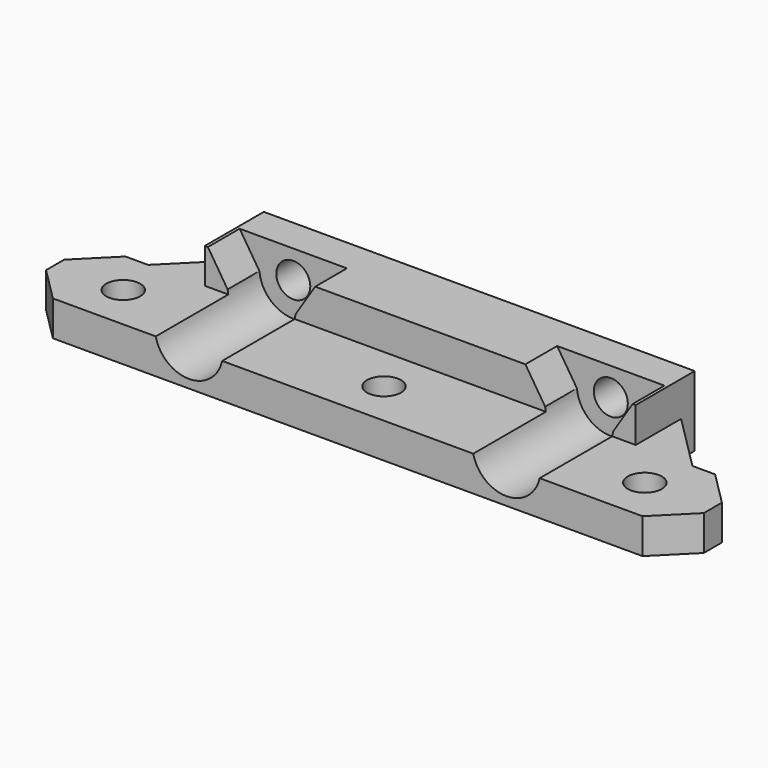
from build123d import *

# Parameters (mm, degrees)
SKETCH_W        = 38
SKETCH_H        = 6.2
SKETCH_R        = 1.5
PAD_DEPTH       = 3
PAD001_DEPTH    = 3.5
PAD002_DEPTH    = 8
SKETCH003_R     = 1.5
POCKET_DEPTH    = 3.101
SKETCH004_W     = 3.1
SKETCH004_H     = 8
PAD003_DEPTH    = 10
SKETCH005_W     = 3.1
SKETCH005_H     = 8
PAD004_DEPTH    = 10
SKETCH006_R     = 1.5
POCKET001_DEPTH = 3.101
CHAMFER_SIZE    = 5
CHAMFER001_SIZE = 3
CHAMFER002_SIZE = 3


with BuildPart() as part:
    # Sketch → Pad (new body)
    with BuildSketch(Plane.XZ):
        with Locations((0, 3.1)):
            Rectangle(SKETCH_W, SKETCH_H)
        with Locations((-14, 3.75)):
            Circle(SKETCH_R, mode=Mode.SUBTRACT)
        with Locations((14, 3.75)):
            Circle(SKETCH_R, mode=Mode.SUBTRACT)
    extrude(amount=PAD_DEPTH)

    # Sketch001 (on Face8 of Pad) → Pad001 (join)
    with BuildSketch(Plane.XZ.offset(3)):
        with BuildLine():
            ThreePointArc((-15.731329, 6.2), (-14, 0.75), (-12.268671, 6.2))
            Line((-12.268671, 6.2), (12.268671, 6.2))
            ThreePointArc((12.268671, 6.2), (14, 0.75), (15.731329, 6.2))
            Line((15.731329, 6.2), (19, 6.2))
            Line((19, 6.2), (19, 0))
            Line((19, 0), (-19, 0))
            Line((-19, 0), (-19, 6.2))
            Line((-19, 6.2), (-15.731329, 6.2))
        make_face()
    extrude(amount=PAD001_DEPTH)

    # Sketch002 (on Face7 of Pad001) → Pad002 (join)
    with BuildSketch(Plane.XZ.offset(6.5)):
        with BuildLine():
            Line((-19, 0), (-19, 3.1))
            Line((-19, 3.1), (-16.928737, 3.1))
            ThreePointArc((-16.928737, 3.1), (-14, 0.75), (-11.071263, 3.1))
            Line((-11.071263, 3.1), (11.071263, 3.1))
            ThreePointArc((11.071263, 3.1), (14, 0.75), (16.928737, 3.1))
            Line((19, 3.1), (16.928737, 3.1))
            Line((19, 0), (19, 3.1))
            Line((-19, 0), (19, 0))
        make_face()
    extrude(amount=PAD002_DEPTH)

    # Sketch003 (on Face13 of Pad002) → Pocket (cut, through all)
    with BuildSketch(Plane(origin=(0, 0, 3.1), x_dir=(-1, 0, 0), z_dir=(0, 0, 1))):
        with Locations((0, 10.5)):
            Circle(SKETCH003_R)
    extrude(amount=-POCKET_DEPTH, mode=Mode.SUBTRACT)

    # Sketch004 (on Face4 of Pocket) → Pad003 (join)
    with BuildSketch(Plane(origin=(19, 0, 0), x_dir=(0, 0, 1), z_dir=(1, 0, 0))):
        with Locations((1.55, 10.5)):
            Rectangle(SKETCH004_W, SKETCH004_H)
    extrude(amount=PAD003_DEPTH)

    # Sketch005 (on Face2 of Pad003) → Pad004 (join)
    with BuildSketch(Plane(origin=(-19, 0, 0), x_dir=(0, 0, -1), z_dir=(-1, 0, 0))):
        with Locations((-1.55, 10.5)):
            Rectangle(SKETCH005_W, SKETCH005_H)
    extrude(amount=PAD004_DEPTH)

    # Sketch006 (on Face23 of Pad004) → Pocket001 (cut, through all)
    with BuildSketch(Plane(origin=(0, 0, 3.1), x_dir=(-1, 0, 0), z_dir=(0, 0, 1))):
        with Locations((-23, 10.5)):
            Circle(SKETCH006_R)
        with Locations((23, 10.5)):
            Circle(SKETCH006_R)
    extrude(amount=-POCKET001_DEPTH, mode=Mode.SUBTRACT)

    # Chamfer
    chamfer_edges = [part.edges().sort_by_distance(p)[0] for p in [
        (-19, -6.5, 1.55),
        (19, -6.5, 1.55),
    ]]
    chamfer(chamfer_edges, length=CHAMFER_SIZE)

    # Chamfer001
    chamfer001_edges = [part.edges().sort_by_distance(p)[0] for p in [
        (-29, -6.5, 1.55),
        (29, -6.5, 1.55),
        (-29, -14.5, 1.55),
        (29, -14.5, 1.55),
    ]]
    chamfer(chamfer001_edges, length=CHAMFER001_SIZE)

    # Chamfer002
    chamfer002_edges = [part.edges().sort_by_distance(p)[0] for p in [
        (-12.268671, -4.75, 6.2),
        (-15.731329, -4.75, 6.2),
        (12.268671, -4.75, 6.2),
        (15.731329, -4.75, 6.2),
    ]]
    chamfer(chamfer002_edges, length=CHAMFER002_SIZE)


solid = part.part
